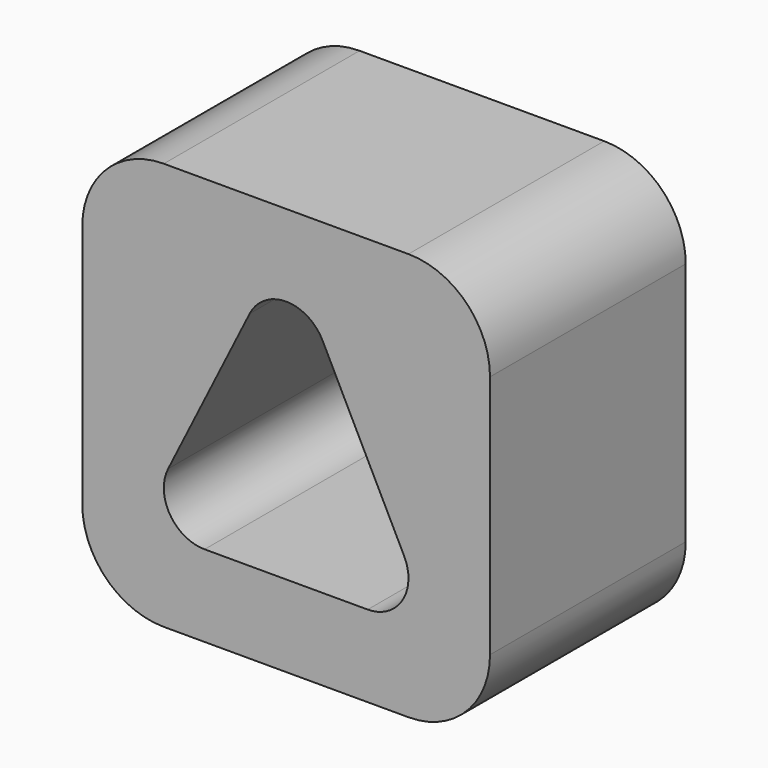
from build123d import *

# Parameters (mm, degrees)
F0_W     = 63.5
F0_H     = 63.5
F1_DEPTH = 38.1
F2_R     = 12.7


with BuildPart() as f1:
    # F0 (on Front) → F1 (new body)
    with BuildSketch(Plane.XZ):
        with Locations((31.75, 31.75)):
            Rectangle(F0_W, F0_H)
        with BuildLine():
            ThreePointArc((19.05, 12.7), (13.648367, 15.711607), (13.370387, 21.889806))
            Line((13.370387, 21.889806), (26.070387, 47.289806))
            ThreePointArc((26.070387, 47.289806), (31.75, 50.8), (37.429613, 47.289806))
            Line((37.429613, 47.289806), (50.129613, 21.889806))
            ThreePointArc((50.129613, 21.889806), (49.851633, 15.711607), (44.45, 12.7))
            Line((44.45, 12.7), (19.05, 12.7))
        make_face(mode=Mode.SUBTRACT)
    extrude(amount=-F1_DEPTH)

    # F2
    f2_edges = [f1.edges().sort_by_distance(p)[0] for p in [
        (63.5, 19.05, 63.5),
        (63.5, 19.05, 0),
        (0, 19.05, 63.5),
        (0, 19.05, 0),
    ]]
    fillet(f2_edges, radius=F2_R)


solid = f1.part
